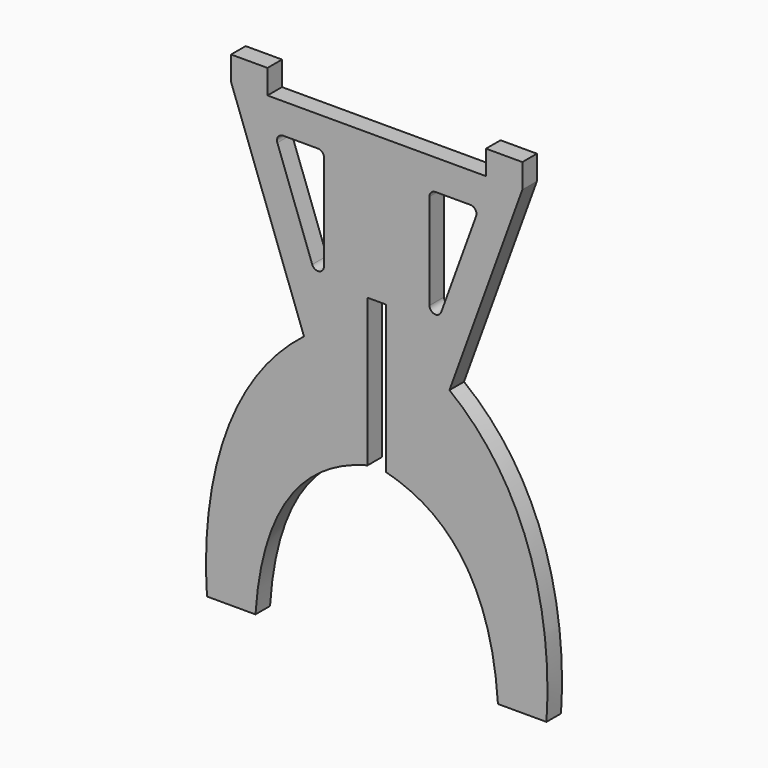
from build123d import *

# Parameters (mm, degrees)
F1_DEPTH = 19.05
F3_DEPTH = 25.4


with BuildPart() as f1:
    # F0 (on Front) → F1 (new body)
    with BuildSketch(Plane.XZ):
        with BuildLine():
            Line((-177.8, 0), (-127, 0))
            add(Edge.make_bspline(
                [(-127, 0), (-121.909369, 76.736715), (-95.209017, 153.829788), (-9.525, 175.652704)],
                knots=[0, 0, 0, 0, 210.87623, 210.87623, 210.87623, 210.87623], degree=3))
            Line((-9.525, 175.652704), (-9.525, 330.2))
            Line((-9.525, 330.2), (9.525, 330.2))
            Line((9.525, 330.2), (9.525, 175.652704))
            add(Edge.make_bspline(
                [(127, 0), (121.909369, 76.736715), (95.209017, 153.829788), (9.525, 175.652704)],
                knots=[0, 0, 0, 0, 210.87623, 210.87623, 210.87623, 210.87623], degree=3))
            Line((127, 0), (177.8, 0))
            add(Edge.make_bspline(
                [(177.8, 0), (182.552382, 63.602008), (175.600886, 195.884856), (76.2, 272.893291)],
                knots=[0, 0, 0, 0, 291.192906, 291.192906, 291.192906, 291.192906], degree=3))
            Line((76.2, 272.893291), (152.527, 482.6))
            Line((152.527, 482.6), (152.527, 508))
            Line((152.527, 508), (114.427, 508))
            Line((114.427, 508), (114.427, 482.6))
            Line((114.427, 482.6), (9.525, 482.6))
            Line((9.525, 482.6), (-9.525, 482.6))
            Line((-9.525, 482.6), (-114.427, 482.6))
            Line((-114.427, 482.6), (-114.427, 508))
            Line((-114.427, 508), (-152.527, 508))
            Line((-152.527, 508), (-152.527, 482.6))
            Line((-152.527, 482.6), (-76.2, 272.893291))
            add(Edge.make_bspline(
                [(-177.8, 0), (-182.552382, 63.602008), (-175.600886, 195.884856), (-76.2, 272.893291)],
                knots=[0, 0, 0, 0, 291.192906, 291.192906, 291.192906, 291.192906], degree=3))
        make_face()
    extrude(amount=F1_DEPTH)

    # F2 (on face) → F3 (cut)
    with BuildSketch(Plane.XZ.offset(19.05)):
        with BuildLine():
            ThreePointArc((-98.114561, 450.85), (-103.316176, 448.14221), (-104.081609, 442.328172))
            Line((-104.081609, 442.328172), (-67.566383, 342.003413))
            ThreePointArc((-67.566383, 342.003413), (-60.496669, 337.921712), (-55.249335, 344.175241))
            Line((-55.249335, 344.175241), (-55.249335, 444.5))
            ThreePointArc((-55.249335, 444.5), (-57.109207, 448.990128), (-61.599335, 450.85))
            Line((-61.599335, 450.85), (-98.114561, 450.85))
        make_face()
        with BuildLine():
            ThreePointArc((61.599335, 450.85), (57.109207, 448.990128), (55.249335, 444.5))
            Line((55.249335, 444.5), (55.249335, 344.175241))
            ThreePointArc((55.249335, 344.175241), (60.496669, 337.921712), (67.566383, 342.003413))
            Line((67.566383, 342.003413), (104.081609, 442.328172))
            ThreePointArc((104.081609, 442.328172), (103.316176, 448.14221), (98.114561, 450.85))
            Line((98.114561, 450.85), (61.599335, 450.85))
        make_face()
    extrude(amount=-F3_DEPTH, mode=Mode.SUBTRACT)


solid = f1.part
